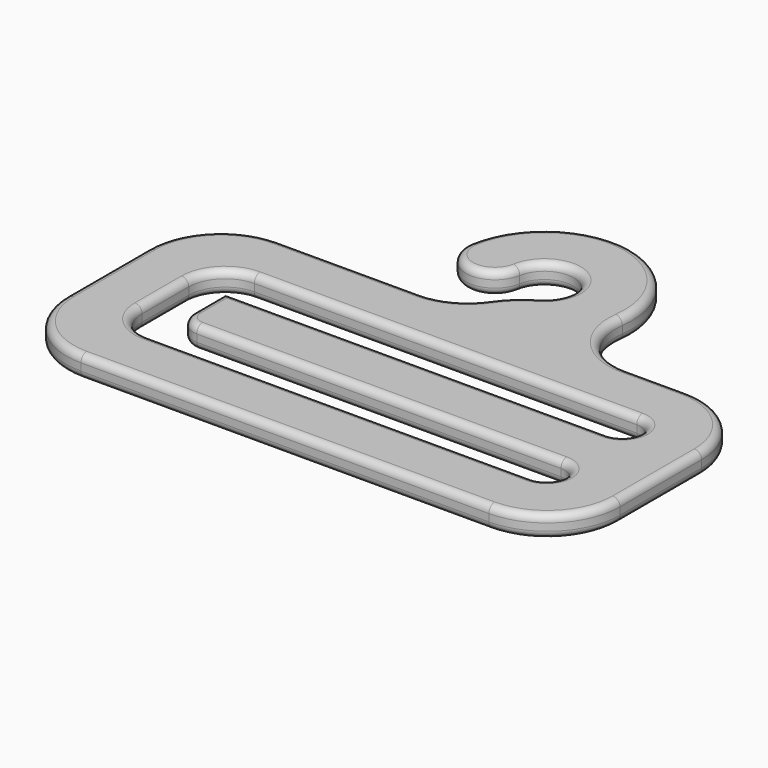
from build123d import *

# Parameters (mm, degrees)
F1_DEPTH = 3
F2_DEPTH = 3
F3_R     = 1


with BuildPart() as f1:
    # F0 (on Top) → F1 (new body)
    with BuildSketch(Plane.XY):
        with BuildLine():
            ThreePointArc((-3.9411739298, 0.6834823003), (2.2896838516, 3.2798396088), (2, -3.4641016151))
            ThreePointArc((2, -3.4641016151), (-0.1462919753, -5.0451677818), (-1.890567866, -7.0610648733))
            ThreePointArc((-1.890567866, -7.0610648733), (-4.7588148258, -9.6104494895), (-8.4842797767, -10.5308371484))
            Line((-8.4842797767, -10.5308371484), (-28, -10.5308371484))
            ThreePointArc((-28, -10.5308371484), (-35.0710678119, -13.4597693366), (-38, -20.5308371484))
            Line((-38, -20.5308371484), (-38, -34.5308371484))
            ThreePointArc((-38, -34.5308371484), (-35.0710678119, -41.6019049603), (-28, -44.5308371484))
            Line((-28, -44.5308371484), (28, -44.5308371484))
            ThreePointArc((28, -44.5308371484), (35.0710678119, -41.6019049603), (38, -34.5308371484))
            Line((38, -34.5308371484), (38, -20.5308371484))
            ThreePointArc((38, -20.5308371484), (35.0710678119, -13.4597693366), (28, -10.5308371484))
            Line((28, -10.5308371484), (19.8392253712, -10.5308371484))
            ThreePointArc((19.8392253712, -10.5308371484), (13.8351151592, -7.8176755763), (11.9035352227, -1.5185022891))
            ThreePointArc((11.9035352227, -1.5185022891), (1.7849230004, 11.8665095914), (-11.8235217895, 2.0504469009))
            ThreePointArc((-11.8235217895, 2.0504469009), (-8.56583016, -2.5742093293), (-3.9411739298, 0.6834823003))
        make_face()
        with BuildLine():
            Line((-30, -31.5308371484), (-30, -23.5308371484))
            ThreePointArc((-30, -23.5308371484), (-28.5355339059, -19.9953032425), (-25, -18.5308371484))
            Line((-25, -18.5308371484), (27.5, -18.5308371484))
            ThreePointArc((27.5, -18.5308371484), (29.267766953, -19.2630701955), (30, -21.0308371484))
            ThreePointArc((30, -21.0308371484), (29.267766953, -22.7986041014), (27.5, -23.5308371484))
            Line((27.5, -23.5308371484), (-25, -23.5308371484))
            Line((-25, -23.5308371484), (-25, -29.0308371484))
            ThreePointArc((-25, -29.0308371484), (-24.267766953, -30.7986041014), (-22.5, -31.5308371484))
            Line((-22.5, -31.5308371484), (27.5, -31.5308371484))
            ThreePointArc((27.5, -31.5308371484), (29.267766953, -32.2630701955), (30, -34.0308371484))
            ThreePointArc((30, -34.0308371484), (29.267766953, -35.7986041014), (27.5, -36.5308371484))
            Line((27.5, -36.5308371484), (-25, -36.5308371484))
            ThreePointArc((-25, -36.5308371484), (-28.5355339059, -35.0663710544), (-30, -31.5308371484))
        make_face(mode=Mode.SUBTRACT)
    extrude(amount=F1_DEPTH)

    # F0 (on Top) → F2 (cut)
    with BuildSketch(Plane.XY):
        with BuildLine():
            ThreePointArc((-25, -18.5308371484), (-28.5355339059, -19.9953032425), (-30, -23.5308371484))
            Line((-30, -23.5308371484), (-30, -31.5308371484))
            ThreePointArc((-30, -31.5308371484), (-28.5355339059, -35.0663710544), (-25, -36.5308371484))
            Line((-25, -36.5308371484), (27.5, -36.5308371484))
            ThreePointArc((27.5, -36.5308371484), (29.267766953, -35.7986041014), (30, -34.0308371484))
            ThreePointArc((30, -34.0308371484), (29.267766953, -32.2630701955), (27.5, -31.5308371484))
            Line((27.5, -31.5308371484), (-22.5, -31.5308371484))
            ThreePointArc((-22.5, -31.5308371484), (-24.267766953, -30.7986041014), (-25, -29.0308371484))
            Line((-25, -29.0308371484), (-25, -23.5308371484))
            Line((-25, -23.5308371484), (27.5, -23.5308371484))
            ThreePointArc((27.5, -23.5308371484), (29.267766953, -22.7986041014), (30, -21.0308371484))
            ThreePointArc((30, -21.0308371484), (29.267766953, -19.2630701955), (27.5, -18.5308371484))
            Line((27.5, -18.5308371484), (-25, -18.5308371484))
        make_face()
    extrude(amount=-F2_DEPTH, mode=Mode.SUBTRACT)

    # F3
    f3_edges = [f1.edges().sort_by_distance(p)[0] for p in [
        (2.5, -31.530837, 3),
        (13.835115, -7.817676, 3),
        (1.25, -18.530837, 0),
        (-8.56583, -2.574209, 0),
    ]]
    fillet(f3_edges, radius=F3_R)


solid = f1.part
